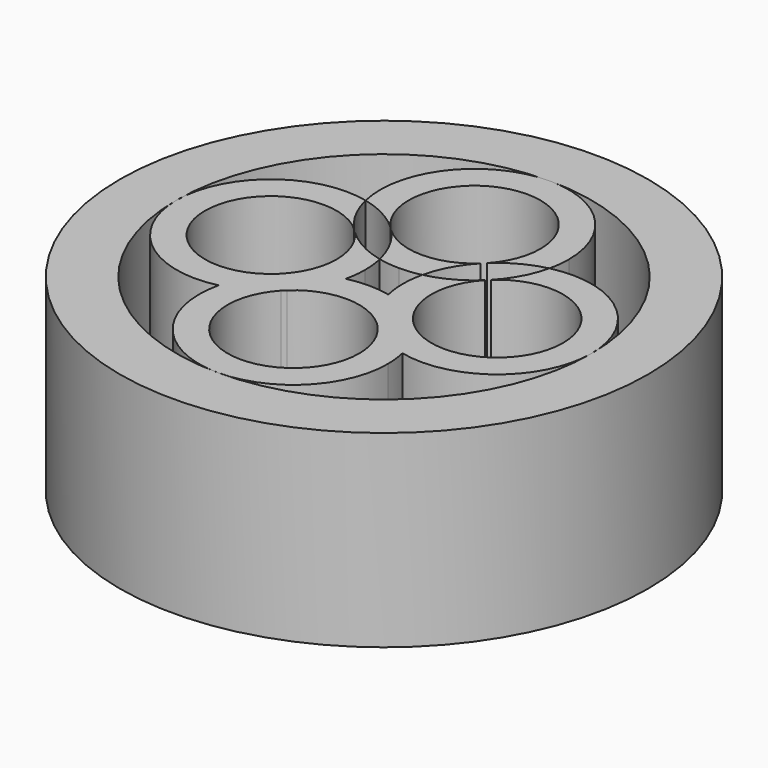
from build123d import *

# Parameters (mm, degrees)
F0_R     = 35
F1_DEPTH = 25


with BuildPart() as f1:
    # F0 (on Top) → F1 (new body)
    with BuildSketch(Plane.XY):
        Circle(F0_R)
        with BuildLine():
            ThreePointArc((0, 27.5), (19.4454364826, 19.4454364826), (27.5, 0))
            ThreePointArc((27.5, 0), (19.4454364306, -19.4454365347), (-1.472e-07, -27.5))
            ThreePointArc((-1.472e-07, -27.5), (-19.4454365274, -19.4454364378), (-27.5, -2.06e-08))
            ThreePointArc((-27.5, -2.06e-08), (-19.4454364899, 19.4454364754), (0, 27.5))
        make_face(mode=Mode.SUBTRACT)
    extrude(amount=F1_DEPTH)


with BuildPart() as f1b:
    # F0 (on Top) → F1, piece 2 (new body)
    with BuildSketch(Plane.XY):
        with BuildLine():
            ThreePointArc((-12.1770717335, 12.1770717335), (-22.7769980365, 9.7861280157), (-27.5, -2.06e-08))
            ThreePointArc((-27.5, -2.06e-08), (-22.7769980204, -9.7861280285), (-12.1770717335, -12.1770717335))
            ThreePointArc((-12.1770717335, -12.1770717335), (-11.0079822401, -9.0776417703), (-9.065816326, -6.394131401))
            ThreePointArc((-9.065816326, -6.394131401), (-23.7235, 0), (-9.065816326, 6.394131401))
            ThreePointArc((-9.065816326, 6.394131401), (-11.0079822401, 9.0776417703), (-12.1770717335, 12.1770717335))
        make_face()
        with BuildLine():
            ThreePointArc((-12.1770717335, -12.1770717335), (-9.7861280679, -22.7769979708), (-1.472e-07, -27.5))
            ThreePointArc((-1.472e-07, -27.5), (8.8388347128, -23.8388348169), (12.5, -15))
            ThreePointArc((12.5, -15), (12.4190055292, -13.5793305572), (12.1770717335, -12.1770717335))
            ThreePointArc((12.1770717335, -12.1770717335), (9.0767385281, -11.0074962428), (6.3926437223, -9.0644038915))
            ThreePointArc((6.3926437223, -9.0644038915), (8.1198089674, -11.8115995773), (8.7233706171, -15))
            ThreePointArc((8.7233706171, -15), (-3.1884004227, -23.1198089674), (-6.3926437223, -9.0644038915))
            ThreePointArc((-6.3926437223, -9.0644038915), (-9.0767385281, -11.0074962428), (-12.1770717335, -12.1770717335))
        make_face()
        with BuildLine():
            ThreePointArc((-9.065816326, -6.394131401), (-11.0079822401, -9.0776417703), (-12.1770717335, -12.1770717335))
            ThreePointArc((-12.1770717335, -12.1770717335), (-9.0767385281, -11.0074962428), (-6.3926437223, -9.0644038915))
            ThreePointArc((-6.3926437223, -9.0644038915), (-6.1683545181, -8.8316454819), (-5.9355961085, -8.6073562777))
            ThreePointArc((-5.9355961085, -8.6073562777), (-3.9925037572, -5.9232614719), (-2.8229282665, -2.8229282665))
            ThreePointArc((-2.8229282665, -2.8229282665), (-5.9223582297, -3.9920177599), (-8.605868599, -5.934183674))
            ThreePointArc((-8.605868599, -5.934183674), (-8.8315539943, -6.1684460057), (-9.065816326, -6.394131401))
        make_face()
        with BuildLine():
            ThreePointArc((-2.8229282665, 2.8229282665), (-5.9223582297, 3.9920177599), (-8.605868599, 5.934183674))
            ThreePointArc((-8.605868599, 5.934183674), (-6.8796965104, 3.1874948607), (-6.2765, 0))
            ThreePointArc((-6.2765, 0), (-6.8796965104, -3.1874948607), (-8.605868599, -5.934183674))
            ThreePointArc((-8.605868599, -5.934183674), (-5.9223582297, -3.9920177599), (-2.8229282665, -2.8229282665))
            ThreePointArc((-2.8229282665, -2.8229282665), (-2.5809944708, -1.4206694428), (-2.5, 0))
            ThreePointArc((-2.5, 0), (-2.5809944708, 1.4206694428), (-2.8229282665, 2.8229282665))
        make_face()
        with BuildLine():
            ThreePointArc((-5.9355961085, -8.6073562777), (0, -6.2766293829), (5.9355961085, -8.6073562777))
            ThreePointArc((5.9355961085, -8.6073562777), (3.9925037572, -5.9232614719), (2.8229282665, -2.8229282665))
            ThreePointArc((2.8229282665, -2.8229282665), (1.4206694428, -2.5809944708), (0, -2.5))
            ThreePointArc((0, -2.5), (-1.4206694428, -2.5809944708), (-2.8229282665, -2.8229282665))
            ThreePointArc((-2.8229282665, -2.8229282665), (-3.9925037572, -5.9232614719), (-5.9355961085, -8.6073562777))
        make_face()
        with BuildLine():
            ThreePointArc((6.3926437223, -9.0644038915), (9.0767385281, -11.0074962428), (12.1770717335, -12.1770717335))
            ThreePointArc((12.1770717335, -12.1770717335), (11.0079822401, -9.0776417703), (9.065816326, -6.394131401))
            ThreePointArc((9.065816326, -6.394131401), (8.8315539943, -6.1684460057), (8.605868599, -5.934183674))
            ThreePointArc((8.605868599, -5.934183674), (5.9223582297, -3.9920177599), (2.8229282665, -2.8229282665))
            ThreePointArc((2.8229282665, -2.8229282665), (3.9925037572, -5.9232614719), (5.9355961085, -8.6073562777))
            ThreePointArc((5.9355961085, -8.6073562777), (6.1683545181, -8.8316454819), (6.3926437223, -9.0644038915))
        make_face()
        with BuildLine():
            ThreePointArc((8.605868599, -5.934183674), (6.2765, 0), (8.605868599, 5.934183674))
            ThreePointArc((8.605868599, 5.934183674), (5.9223582297, 3.9920177599), (2.8229282665, 2.8229282665))
            ThreePointArc((2.8229282665, 2.8229282665), (2.5809944708, 1.4206694428), (2.5, 0))
            ThreePointArc((2.5, 0), (2.5809944708, -1.4206694428), (2.8229282665, -2.8229282665))
            ThreePointArc((2.8229282665, -2.8229282665), (5.9223582297, -3.9920177599), (8.605868599, -5.934183674))
        make_face()
        with BuildLine():
            ThreePointArc((12.1770717335, -12.1770717335), (22.7769980284, -9.7861280221), (27.5, 0))
            ThreePointArc((27.5, 0), (22.7769980284, 9.7861280221), (12.1770717335, 12.1770717335))
            ThreePointArc((12.1770717335, 12.1770717335), (11.0079822401, 9.0776417703), (9.065816326, 6.394131401))
            ThreePointArc((9.065816326, 6.394131401), (18.4880224318, 7.9958208938), (23.7235, 0))
            ThreePointArc((23.7235, 0), (18.4880224318, -7.9958208938), (9.065816326, -6.394131401))
            ThreePointArc((9.065816326, -6.394131401), (11.0079822401, -9.0776417703), (12.1770717335, -12.1770717335))
        make_face()
    extrude(amount=F1_DEPTH)


with BuildPart() as f1c:
    # F0 (on Top) → F1, piece 3 (new body)
    with BuildSketch(Plane.XY):
        with BuildLine():
            ThreePointArc((2.8229282665, 2.8229282665), (3.9920177599, 5.9223582297), (5.934183674, 8.605868599))
            ThreePointArc((5.934183674, 8.605868599), (0, 6.2765), (-5.934183674, 8.605868599))
            ThreePointArc((-5.934183674, 8.605868599), (-3.9920177599, 5.9223582297), (-2.8229282665, 2.8229282665))
            ThreePointArc((-2.8229282665, 2.8229282665), (-1.4206694428, 2.5809944708), (0, 2.5))
            ThreePointArc((0, 2.5), (1.4206694428, 2.5809944708), (2.8229282665, 2.8229282665))
        make_face()
    extrude(amount=F1_DEPTH)


with BuildPart() as f1d:
    # F0 (on Top) → F1, piece 4 (new body)
    with BuildSketch(Plane.XY):
        with BuildLine():
            ThreePointArc((12.5, 15), (8.8388347648, 23.8388347648), (0, 27.5))
            ThreePointArc((0, 27.5), (-9.7861280221, 22.7769980284), (-12.1770717335, 12.1770717335))
            ThreePointArc((-12.1770717335, 12.1770717335), (-9.0776417703, 11.0079822401), (-6.394131401, 9.065816326))
            ThreePointArc((-6.394131401, 9.065816326), (-3.1874948607, 23.1203034896), (8.7235, 15))
            ThreePointArc((8.7235, 15), (8.1203034896, 11.8125051393), (6.394131401, 9.065816326))
            ThreePointArc((6.394131401, 9.065816326), (9.0776417703, 11.0079822401), (12.1770717335, 12.1770717335))
            ThreePointArc((12.1770717335, 12.1770717335), (12.4190055292, 13.5793305572), (12.5, 15))
        make_face()
    extrude(amount=F1_DEPTH)


solid = Compound([f1.part, f1b.part, f1c.part, f1d.part])
